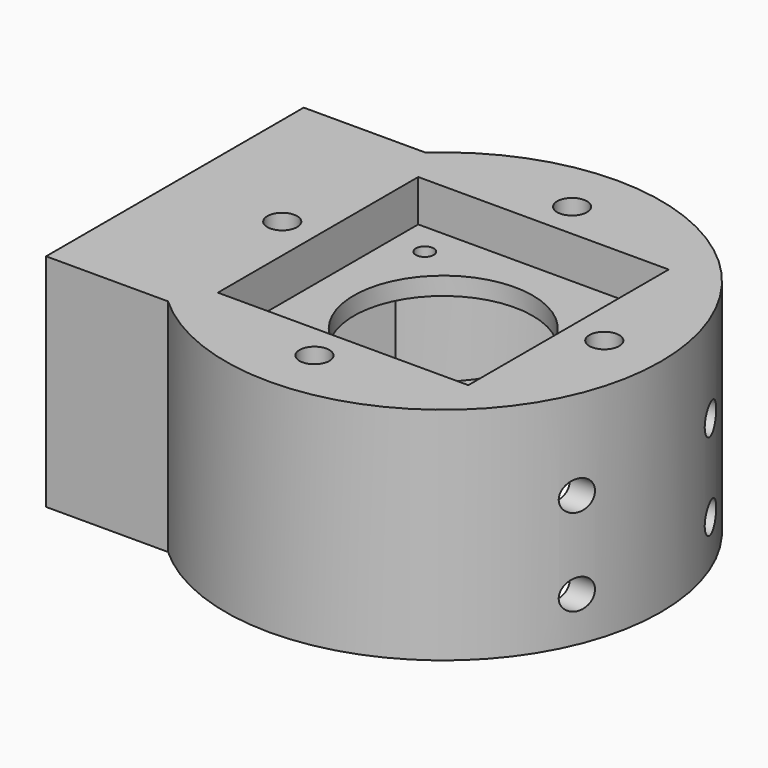
from build123d import *

# Parameters (mm, degrees)
SKETCH054_R           = 36.5
PAD024_DEPTH          = 37
SKETCH055_W           = 42
SKETCH055_H           = 42
POCKET015_DEPTH       = 7
SKETCH056_R           = 32.5
POCKET016_DEPTH       = 27
SKETCH057_R           = 15
POCKET017_DEPTH       = 5
SKETCH058_R           = 1.5
POCKET018_DEPTH       = 5
POLARPATTERN004_COUNT = 4
PAD025_DEPTH          = 37
SKETCH060_W           = 42
SKETCH060_H           = 21
POCKET019_DEPTH       = 30
SKETCH061_W           = 18
SKETCH061_H           = 15
POCKET020_DEPTH       = 5
SKETCH062_W           = 25
SKETCH062_H           = 42
POCKET021_DEPTH       = 10
SKETCH064_R           = 2.5
POCKET023_DEPTH       = 81.501
SKETCH065_R           = 2.5
POCKET024_DEPTH       = 37.001


with BuildPart() as part:
    # Sketch054 → Pad024 (new body)
    with BuildSketch(Plane.XY):
        Circle(SKETCH054_R)
    extrude(amount=PAD024_DEPTH)

    # Sketch055 (on Face3 of Pad024) → Pocket015 (cut)
    with BuildSketch(Plane.XY.offset(37)):
        Rectangle(SKETCH055_W, SKETCH055_H)
    extrude(amount=-POCKET015_DEPTH, mode=Mode.SUBTRACT)

    # Sketch056 (on Face2 of Pocket015) → Pocket016 (cut)
    with BuildSketch(Plane(origin=(0, 0, 0), x_dir=(1, 0, 0), z_dir=(0, 0, -1))):
        Circle(SKETCH056_R)
    extrude(amount=-POCKET016_DEPTH, mode=Mode.SUBTRACT)

    # Sketch057 (on Face9 of Pocket016) → Pocket017 (cut)
    with BuildSketch(Plane(origin=(0, 0, 27), x_dir=(1, 0, 0), z_dir=(0, 0, -1))):
        Circle(SKETCH057_R)
    extrude(amount=-POCKET017_DEPTH, mode=Mode.SUBTRACT)

    # Sketch058 (on Face9 of Pocket017) → Pocket018 (cut)
    with BuildSketch(Plane(origin=(0, 0, 27), x_dir=(1, 0, 0), z_dir=(0, 0, -1))):
        with Locations((-15.5, 15.5)):
            Circle(SKETCH058_R)
    pocket018 = extrude(amount=-POCKET018_DEPTH, mode=Mode.SUBTRACT)

    # PolarPattern004: Pocket018 ×4 about axis
    polarpattern004_axis = Axis((0, 0, 27), (0, 0, -1))
    for i in range(1, POLARPATTERN004_COUNT):
        add(pocket018.rotate(polarpattern004_axis, i * 360 / POLARPATTERN004_COUNT), mode=Mode.SUBTRACT)

    # Sketch059 (on Face2 of PolarPattern004) → Pad025 (join)
    with BuildSketch(Plane(origin=(0, 0, 0), x_dir=(1, 0, 0), z_dir=(0, 0, -1))):
        with BuildLine():
            Line((-45, 27), (-45, -27))
            Line((-45, -27), (-24.561148, -27))
            ThreePointArc((-24.561148, 27), (-36.5, 0), (-24.561148, -27))
            Line((-45, 27), (-24.561148, 27))
        make_face()
    extrude(amount=-PAD025_DEPTH)

    # Sketch060 (on Face2 of Pad025) → Pocket019 (cut)
    with BuildSketch(Plane(origin=(-40, 0, 0), x_dir=(0, -1, 0), z_dir=(-1, 0, 0))):
        with Locations((0, 16.5)):
            Rectangle(SKETCH060_W, SKETCH060_H)
    extrude(amount=-POCKET019_DEPTH, mode=Mode.SUBTRACT)

    # Sketch061 (on Face2 of Pocket019) → Pocket020 (cut)
    with BuildSketch(Plane(origin=(-45, 0, 0), x_dir=(0, -1, 0), z_dir=(-1, 0, 0))):
        with Locations((0, 16.5)):
            Rectangle(SKETCH061_W, SKETCH061_H)
    extrude(amount=-POCKET020_DEPTH, mode=Mode.SUBTRACT)

    # Sketch062 (on Face4 of Pocket020) → Pocket021 (cut)
    with BuildSketch(Plane(origin=(0, 0, 0), x_dir=(1, 0, 0), z_dir=(0, 0, -1))):
        with Locations((-27.5, 0)):
            Rectangle(SKETCH062_W, SKETCH062_H)
    extrude(amount=-POCKET021_DEPTH, mode=Mode.SUBTRACT)

    # Sketch064 (on Face2 of Pocket021) → Pocket023 (cut, through all)
    with BuildSketch(Plane(origin=(-45, 0, 0), x_dir=(0, -1, 0), z_dir=(-1, 0, 0))):
        with Locations((-14, 22)):
            Circle(SKETCH064_R)
        with Locations((14, 22)):
            Circle(SKETCH064_R)
        with Locations((14, 7.436279)):
            Circle(SKETCH064_R)
        with Locations((-14, 7.436279)):
            Circle(SKETCH064_R)
    extrude(amount=-POCKET023_DEPTH, mode=Mode.SUBTRACT)

    # Sketch065 (on Face5 of Pocket023) → Pocket024 (cut, through all)
    with BuildSketch(Plane.XY.offset(37)):
        with Locations((27, 0)):
            Circle(SKETCH065_R)
        with Locations((0, 27)):
            Circle(SKETCH065_R)
        with Locations((0, -27)):
            Circle(SKETCH065_R)
        with Locations((-27, 0)):
            Circle(SKETCH065_R)
    extrude(amount=-POCKET024_DEPTH, mode=Mode.SUBTRACT)


with BuildPart() as part_1:
    # Body005 placement: moved
    add(part.part.moved(Location((260.222748, 1.6e-05, -14.462208))))


solid = part_1.part
